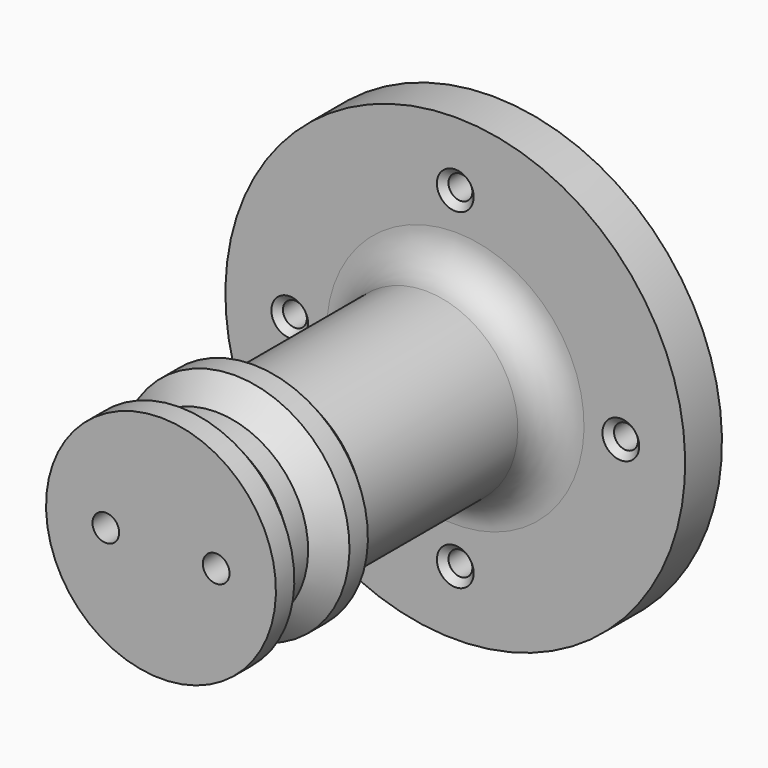
from build123d import *

# Parameters (mm, degrees)
F3_D           = 3.302
F3_CSINK_D     = 5.08
F3_CSINK_ANGLE = 90
F5_D           = 3.683
F5_DEPTH       = 17.78
F5_TIP         = 1.1064848299
F6_R           = 5.08


with BuildPart() as f1:
    # F0 (on Right) → F1 (revolve)
    with BuildSketch(Plane.YZ):
        Polygon((-57.15, 0), (0, 0), (0, 31.75), (-6.35, 31.75), (-6.35, 12.7), (-38.1, 12.7), (-41.275, 15.875), (-44.45, 15.875), (-47.625, 12.7), (-50.8, 12.7), (-53.975, 15.875), (-57.15, 15.875), align=None)
    revolve(axis=Axis((0, -28.575, 0), (0, 1, 0)))

    # F3 (through all)
    with Locations(Plane.XZ.offset(6.35)):
        with Locations((0, 22.86), (22.86, 0), (0, -22.86), (-22.86, 0)):
            CounterSinkHole(F3_D / 2, F3_CSINK_D / 2, counter_sink_angle=F3_CSINK_ANGLE)

    # F5
    with Locations(Plane.XZ.offset(57.15)):
        with Locations((-7.62, 0), (7.62, 0)):
            Hole(F5_D / 2, depth=F5_DEPTH)
            with Locations((0, 0, -(F5_DEPTH + F5_TIP / 2))):  # 118° drill point
                Cone(0, F5_D / 2, F5_TIP, mode=Mode.SUBTRACT)

    # F6
    f6_edges = [f1.edges().sort_by_distance(p)[0] for p in [
        (0, -6.35, -12.7),
    ]]
    fillet(f6_edges, radius=F6_R)


solid = f1.part
